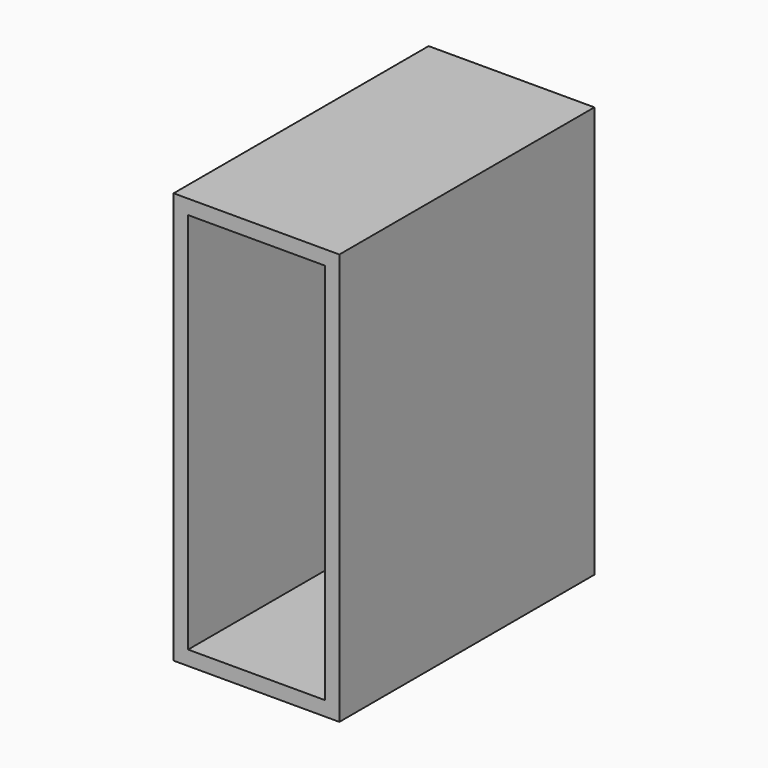
from build123d import *

# Parameters (mm, degrees)
CUBE001_W     = 4.72
CUBE001_H     = 11
CUBE001_DEPTH = 13.2
CUBE_W        = 5.72
CUBE_H        = 11
CUBE_DEPTH    = 14.2


with BuildPart() as cube001:
    # cube001 → cube001 (new body)
    with BuildSketch(Plane(origin=(0.5, -0.5, 0.5), x_dir=(1, 0, 0), z_dir=(0, 0, 1))):
        with Locations((2.36, 5.5)):
            Rectangle(CUBE001_W, CUBE001_H)
    extrude(amount=CUBE001_DEPTH)


with BuildPart() as difference:
    # cube → cube (new body)
    with BuildSketch(Plane.XY):
        with Locations((2.86, 5.5)):
            Rectangle(CUBE_W, CUBE_H)
    extrude(amount=CUBE_DEPTH)

    # difference: cut cube001
    add(cube001.part, mode=Mode.SUBTRACT)


with BuildPart() as difference_1:
    # difference placement: moved
    add(difference.part.moved(Location((-2.86, 0, 0))))


solid = difference_1.part
